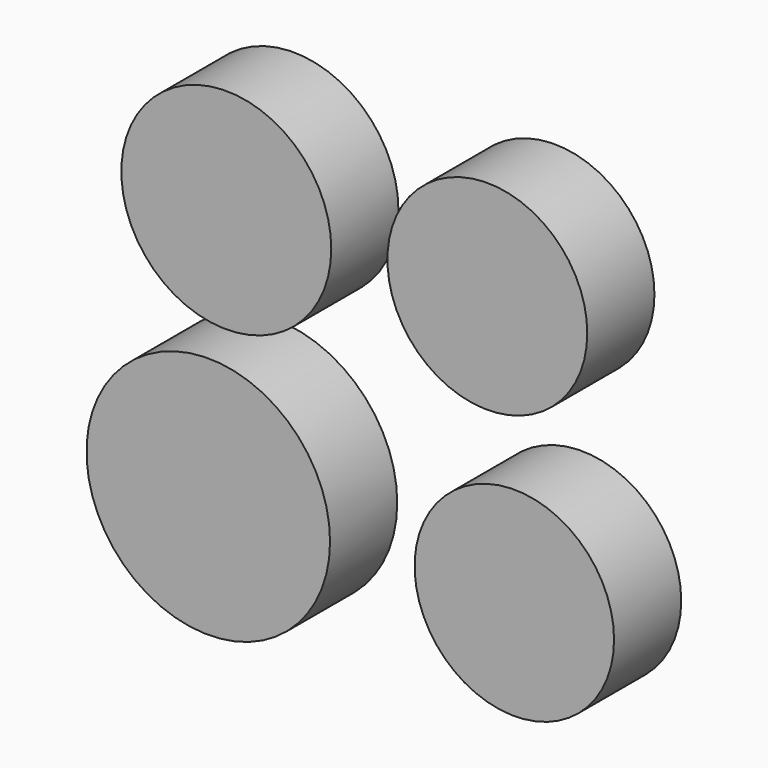
from build123d import *

# Parameters (mm, degrees)
F0_R     = 31.75
F0_R_2   = 30.226
F0_R_3   = 36.83
F0_R_4   = 30.1625
F1_DEPTH = 25.4


with BuildPart() as f1:
    # F0 (on Front) → F1 (new body)
    with BuildSketch(Plane.XZ):
        with Locations((-61.063955, -15.486846)):
            Circle(F0_R)
        with Locations((17.893116, -12.764188)):
            Circle(F0_R_2)
        with Locations((-66.509266, -93.536365)):
            Circle(F0_R_3)
        with Locations((26.061082, -91.721261)):
            Circle(F0_R_4)
    extrude(amount=F1_DEPTH)


solid = f1.part
